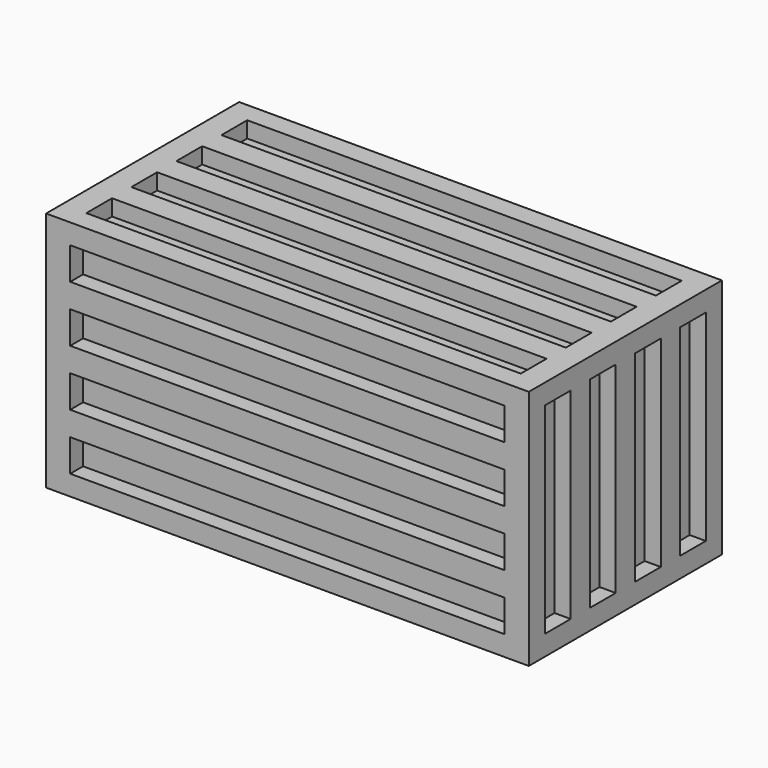
from build123d import *

# Parameters (mm, degrees)
F0_W      = 60
F0_H      = 30
F1_DEPTH  = 30
F2_W      = 54
F2_H      = 4
F3_DEPTH  = 2
F4_W      = 54
F4_H      = 4
F5_DEPTH  = 2
F6_W      = 54
F6_H      = 4
F7_DEPTH  = 2
F8_W      = 54
F8_H      = 4
F9_DEPTH  = 2
F10_W     = 4
F10_H     = 24
F11_DEPTH = 2
F12_W     = 4
F12_H     = 25
F13_DEPTH = 2


with BuildPart() as f1:
    # F0 (on Front) → F1 (new body)
    with BuildSketch(Plane.XZ):
        Rectangle(F0_W, F0_H)
    extrude(amount=F1_DEPTH)

    # F2 (on face) → F3 (cut)
    with BuildSketch(Plane.XZ.offset(30)):
        with Locations((0, -10.5)):
            Rectangle(F2_W, F2_H)
        with Locations((0, -3.5)):
            Rectangle(F2_W, F2_H)
        with Locations((0, 3.5)):
            Rectangle(F2_W, F2_H)
        with Locations((0, 10.5)):
            Rectangle(F2_W, F2_H)
    extrude(amount=-F3_DEPTH, mode=Mode.SUBTRACT)

    # F4 (on face) → F5 (cut)
    with BuildSketch(Plane.XY.offset(15)):
        with Locations((0, -4.5)):
            Rectangle(F4_W, F4_H)
        with Locations((0, -11.5)):
            Rectangle(F4_W, F4_H)
        with Locations((0, -18.5)):
            Rectangle(F4_W, F4_H)
        with Locations((0, -25.5)):
            Rectangle(F4_W, F4_H)
    extrude(amount=-F5_DEPTH, mode=Mode.SUBTRACT)

    # F6 (on face) → F7 (cut)
    with BuildSketch(Plane(origin=(0, 0, 0), x_dir=(-1, 0, 0), z_dir=(0, 1, 0))):
        with Locations((0, 10.5)):
            Rectangle(F6_W, F6_H)
        with Locations((0, 3.5)):
            Rectangle(F6_W, F6_H)
        with Locations((0, -3.5)):
            Rectangle(F6_W, F6_H)
        with Locations((0, -10.5)):
            Rectangle(F6_W, F6_H)
    extrude(amount=-F7_DEPTH, mode=Mode.SUBTRACT)

    # F8 (on face) → F9 (cut)
    with BuildSketch(Plane(origin=(0, 0, -15), x_dir=(1, 0, 0), z_dir=(0, 0, -1))):
        with Locations((0, 25.5)):
            Rectangle(F8_W, F8_H)
        with Locations((0, 18.5)):
            Rectangle(F8_W, F8_H)
        with Locations((0, 11.5)):
            Rectangle(F8_W, F8_H)
        with Locations((0, 4.5)):
            Rectangle(F8_W, F8_H)
    extrude(amount=-F9_DEPTH, mode=Mode.SUBTRACT)

    # F10 (on face) → F11 (cut)
    with BuildSketch(Plane(origin=(-30, 0, 0), x_dir=(0, -1, 0), z_dir=(-1, 0, 0))):
        with Locations((4.5, 0)):
            Rectangle(F10_W, F10_H)
        with Locations((11.5, 0)):
            Rectangle(F10_W, F10_H)
        with Locations((18.5, 0)):
            Rectangle(F10_W, F10_H)
        with Locations((25.5, 0)):
            Rectangle(F10_W, F10_H)
    extrude(amount=-F11_DEPTH, mode=Mode.SUBTRACT)

    # F12 (on face) → F13 (cut)
    with BuildSketch(Plane.YZ.offset(30)):
        with Locations((-25.5, 0)):
            Rectangle(F12_W, F12_H)
        with Locations((-18.5, 0)):
            Rectangle(F12_W, F12_H)
        with Locations((-11.5, 0)):
            Rectangle(F12_W, F12_H)
        with Locations((-4.5, 0)):
            Rectangle(F12_W, F12_H)
    extrude(amount=-F13_DEPTH, mode=Mode.SUBTRACT)


solid = f1.part
